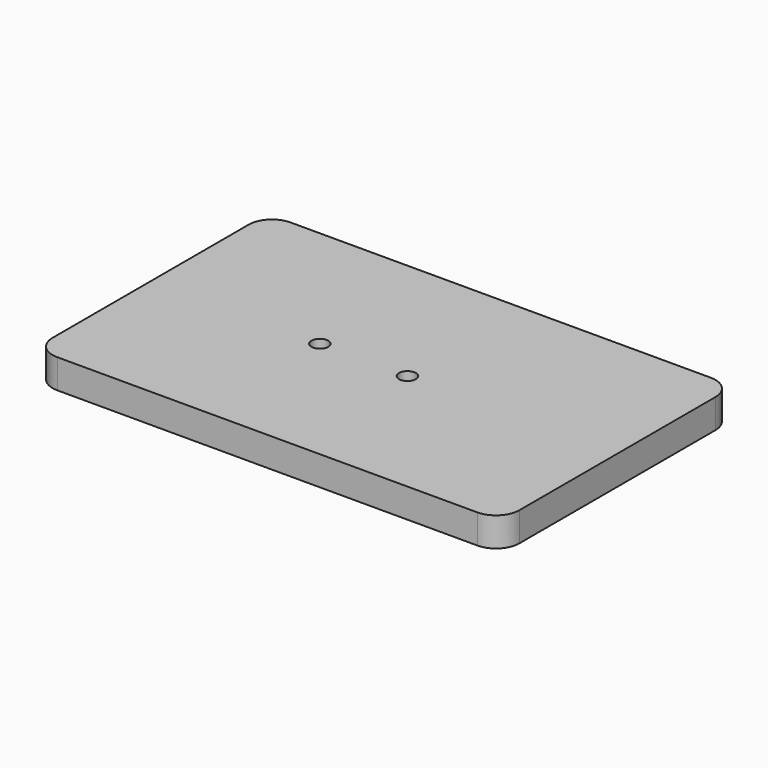
from build123d import *

# Parameters (mm, degrees)
F0_W           = 101.6
F0_H           = 63.5
F1_DEPTH       = 6.35
F2_D           = 3.6576
F2_CSINK_D     = 7.7978
F2_CSINK_ANGLE = 82
F3_R           = 5.08


with BuildPart() as f1:
    # F0 (on Top) → F1 (new body)
    with BuildSketch(Plane.XY):
        Rectangle(F0_W, F0_H)
    extrude(amount=F1_DEPTH)

    # F2 (through all)
    with Locations(Plane(origin=(0, 0, 0), x_dir=(1, 0, 0), z_dir=(0, 0, -1))):
        with Locations((-13.9501372, 0), (5.0998628, 0)):
            CounterSinkHole(F2_D / 2, F2_CSINK_D / 2, counter_sink_angle=F2_CSINK_ANGLE)

    # F3
    f3_edges = [f1.edges().sort_by_distance(p)[0] for p in [
        (-50.8, -31.75, 3.175),
        (-50.8, 31.75, 3.175),
        (50.8, -31.75, 3.175),
        (50.8, 31.75, 3.175),
    ]]
    fillet(f3_edges, radius=F3_R)


solid = f1.part
